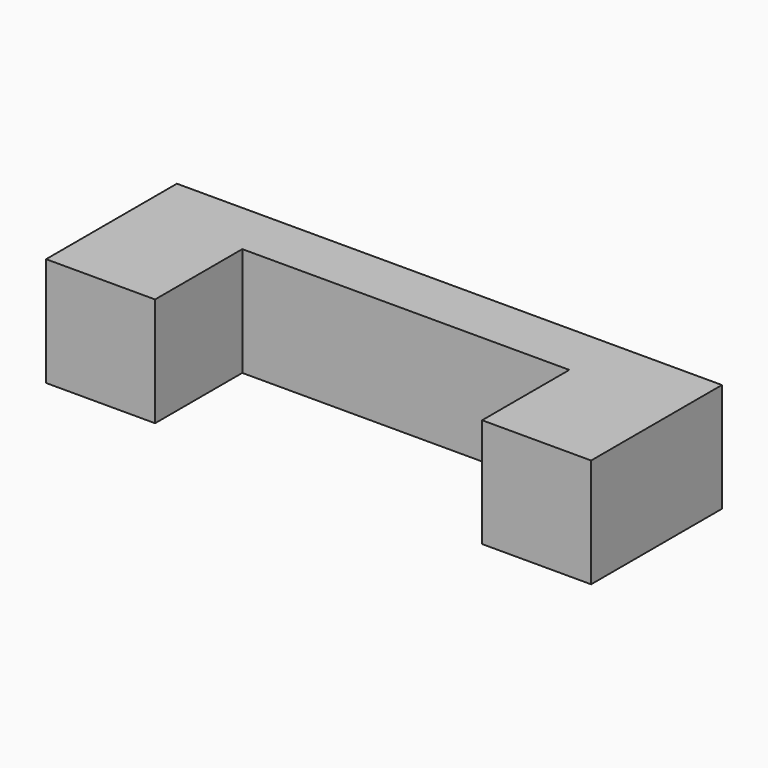
from build123d import *

# Parameters (mm, degrees)
F0_W     = 20
F0_H     = 4
F1_DEPTH = 2
F2_W     = 4
F2_H     = 4
F3_DEPTH = 4


with BuildPart() as f1:
    # F0 (on Front) → F1 (new body)
    with BuildSketch(Plane.XZ):
        Rectangle(F0_W, F0_H)
    extrude(amount=F1_DEPTH)

    # F2 (on face) → F3 (join)
    with BuildSketch(Plane.XZ.offset(2)):
        with Locations((-8, 0)):
            Rectangle(F2_W, F2_H)
        with Locations((8, 0)):
            Rectangle(F2_W, F2_H)
    extrude(amount=F3_DEPTH)


solid = f1.part
